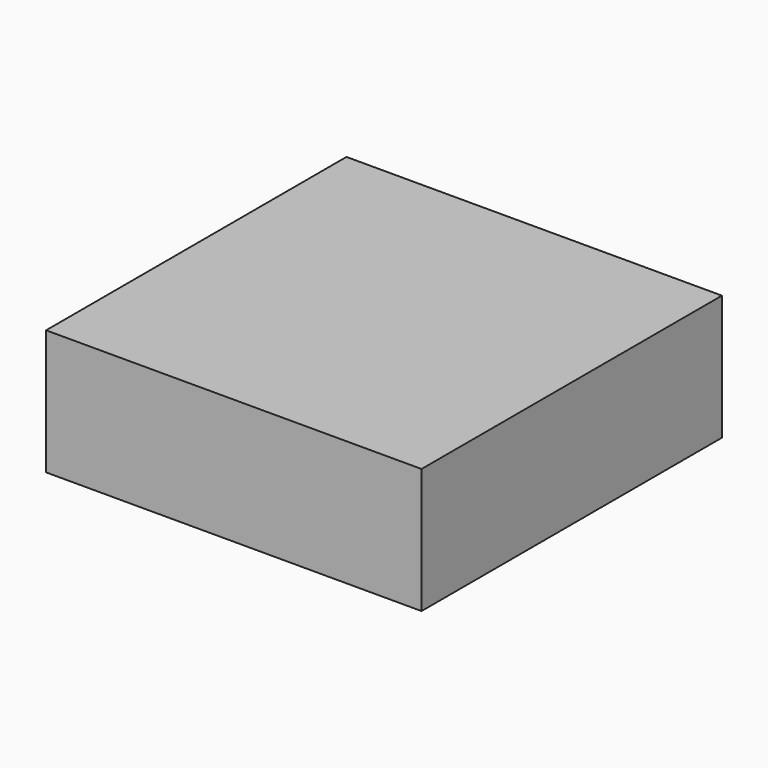
from build123d import *

# Parameters (mm, degrees)
F0_W     = 152.4727120996
F0_H     = 152.4727195501
F1_DEPTH = 12.7
F2_DEPTH = 12.7
F3_DEPTH = 12.7
F4_DEPTH = 12.7


with BuildPart() as f1:
    # F0 (on Top) → F1 (new body)
    with BuildSketch(Plane.XY):
        with Locations((3.7253e-06, 0.2178177238)):
            Rectangle(F0_W, F0_H)
    extrude(amount=F1_DEPTH)

    # F2 (add): a face of the model
    f2_faces = [f1.faces().sort_by_distance(p)[0] for p in [
        (3.7253e-06, 0.2178177238, 12.7),
    ]]
    extrude(f2_faces, amount=F2_DEPTH)

    # F3 (add): a face of the model
    f3_faces = [f1.faces().sort_by_distance(p)[0] for p in [
        (3.7253e-06, 0.2178177238, 0),
    ]]
    extrude(f3_faces, amount=F3_DEPTH)

    # F4 (add): a face of the model
    f4_faces = [f1.faces().sort_by_distance(p)[0] for p in [
        (3.7253e-06, 0.2178177238, -12.7),
    ]]
    extrude(f4_faces, amount=F4_DEPTH)


solid = f1.part
